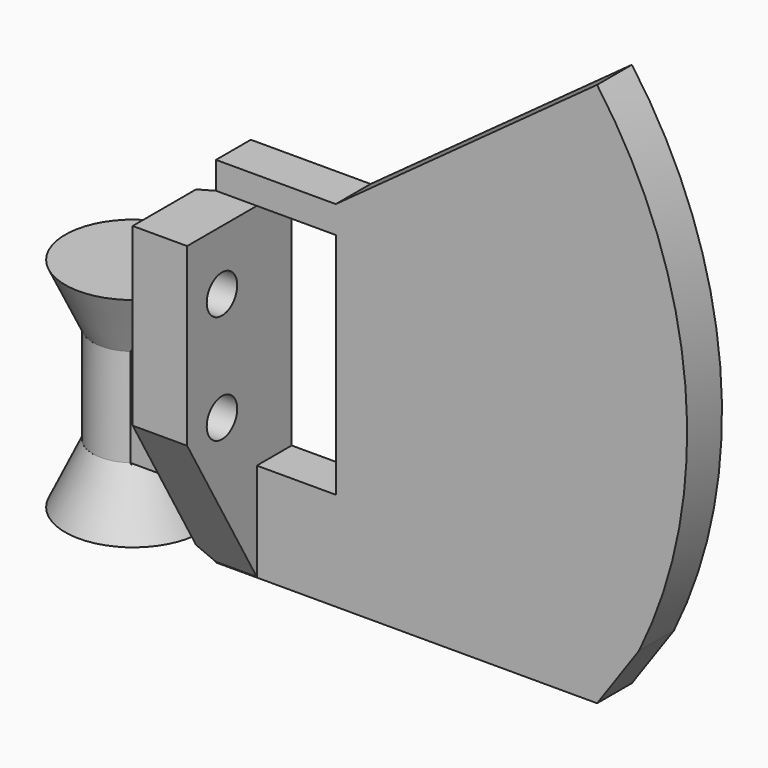
from build123d import *

# Parameters (mm, degrees)
SKETCH001_W     = 1.25
SKETCH001_H     = 6
PAD_DEPTH       = 20
PAD001_DEPTH    = 4
SKETCH003_W     = 7.25
SKETCH003_H     = 21
POCKET_DEPTH    = 5
SKETCH004_W     = 5
SKETCH004_H     = 8
PAD002_DEPTH    = 32.5
SKETCH005_R     = 1.75
SKETCH005_W     = 2.5
SKETCH005_H     = 8
POCKET001_DEPTH = 5
POCKET002_DEPTH = 30.055369


with BuildPart() as part:
    # Sketch → Revolution (revolve)
    with BuildSketch(Plane.XZ):
        Polygon((0, 0), (6.25, 0), (3.685308, 5.5), (3.685308, 14.5), (6.25, 20), (0, 20), align=None)
    revolve(axis=Axis((0, 0, 0), (0, 0, 1)))

    # Sketch001 → Pad (new body)
    with BuildSketch(Plane(origin=(0, 0, 20), x_dir=(-1, 0, 0), z_dir=(0, 0, 1))):
        with Locations((-1.625, 0)):
            Rectangle(SKETCH001_W, SKETCH001_H)
    extrude(amount=-PAD_DEPTH)

    # Sketch002 → Pad001 (new body)
    with BuildSketch(Plane.XZ.offset(3)):
        with BuildLine():
            Line((2.140443, 14.5), (10, 14.5))
            Line((10, 14.5), (10, 32.554369))
            Line((10, 32.554369), (21, 32.554369))
            Line((21, 32.554369), (45, 50))
            ThreePointArc((48.851141, 5.5), (53.111023, 28.285305), (45, 50))
            Line((45, 0), (48.851141, 5.5))
            Line((10, 0), (45, 0))
            Line((10, 5.5), (10, 0))
            Line((10, 5.5), (2.140443, 5.5))
            Line((2.140443, 5.5), (2.140443, 14.5))
        make_face()
    extrude(amount=-PAD001_DEPTH)

    # Sketch003 → Pocket (cut)
    with BuildSketch(Plane.XZ.offset(3)):
        with Locations((17.375, 19.554369)):
            Rectangle(SKETCH003_W, SKETCH003_H)
    extrude(amount=-POCKET_DEPTH, mode=Mode.SUBTRACT)

    # Sketch004 → Pad002 (new body)
    with BuildSketch(Plane(origin=(0, 0, 32.554369), x_dir=(-1, 0, 0), z_dir=(0, 0, 1))):
        with Locations((-11.25, 7)):
            Rectangle(SKETCH004_W, SKETCH004_H)
    extrude(amount=-PAD002_DEPTH)

    # Sketch005 → Pocket001 (cut)
    with BuildSketch(Plane(origin=(13.75, 0, 0), x_dir=(0, 0, 1), z_dir=(1, 0, 0))):
        with Locations((14.554369, 7)):
            Circle(SKETCH005_R)
        with Locations((24.554369, 7)):
            Circle(SKETCH005_R)
        Polygon((0.054369, 11), (13.910775, 11), (0.054369, 3), align=None)
        with Locations((31.304369, 7)):
            Rectangle(SKETCH005_W, SKETCH005_H)
    extrude(amount=-POCKET001_DEPTH, mode=Mode.SUBTRACT)

    # Sketch006 → Pocket002 (cut, through all)
    with BuildSketch(Plane(origin=(0, 0, 30.054369), x_dir=(-1, 0, 0), z_dir=(0, 0, 1))):
        Polygon((-10, 3), (-8.75, 3.721688), (-8.75, 3), align=None)
    extrude(amount=-POCKET002_DEPTH, mode=Mode.SUBTRACT)


solid = part.part
